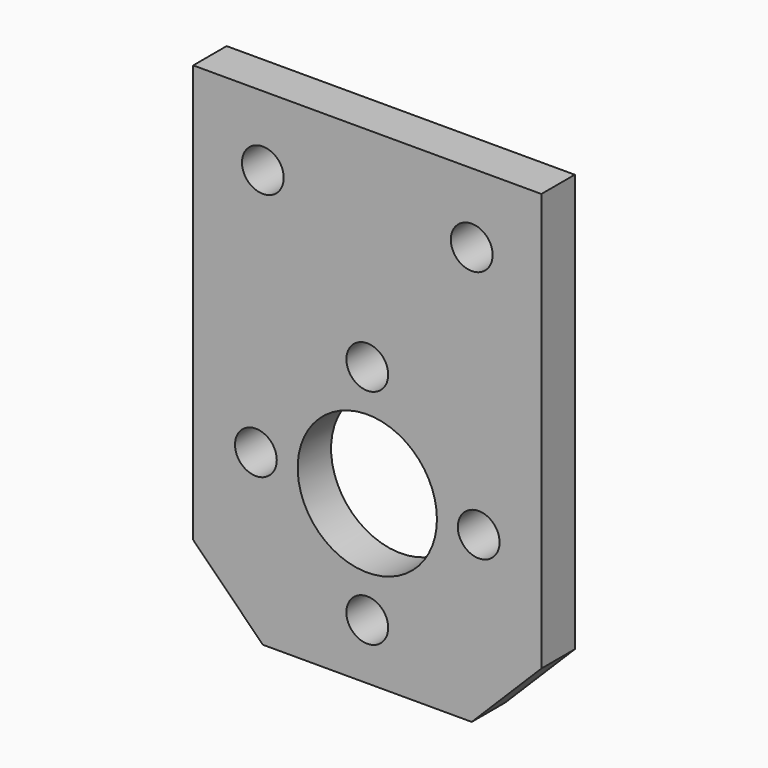
from build123d import *

# Parameters (mm, degrees)
F0_W     = 25
F0_H     = 35
F0_R     = 1.5
F0_R_2   = 5
F1_DEPTH = 3
F2_SIZE  = 5


with BuildPart() as f1:
    # F0 (on Front) → F1 (new body)
    with BuildSketch(Plane.XZ):
        with Locations((0, 5.5)):
            Rectangle(F0_W, F0_H)
        with Locations((-8, 0)):
            Circle(F0_R, mode=Mode.SUBTRACT)
        with Locations((0, -8)):
            Circle(F0_R, mode=Mode.SUBTRACT)
        Circle(F0_R_2, mode=Mode.SUBTRACT)
        with Locations((8, 0)):
            Circle(F0_R, mode=Mode.SUBTRACT)
        with Locations((-7.5, 18)):
            Circle(F0_R, mode=Mode.SUBTRACT)
        with Locations((0, 8)):
            Circle(F0_R, mode=Mode.SUBTRACT)
        with Locations((7.5, 18)):
            Circle(F0_R, mode=Mode.SUBTRACT)
    extrude(amount=F1_DEPTH)

    # F2
    f2_edges = [f1.edges().sort_by_distance(p)[0] for p in [
        (-12.5, -1.5, -12),
        (12.5, -1.5, -12),
    ]]
    chamfer(f2_edges, length=F2_SIZE)


solid = f1.part
